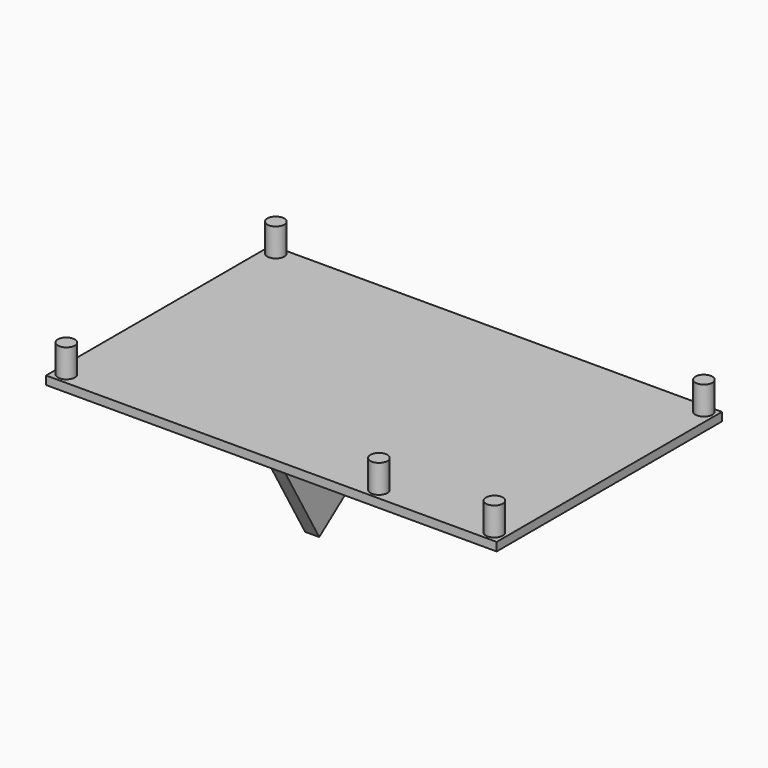
from build123d import *

# Parameters (mm, degrees)
SKETCH_W     = 160
SKETCH_H     = 100
PAD_DEPTH    = 3
SKETCH001_R  = 3
PAD001_DEPTH = 10
PAD002_DEPTH = 5


with BuildPart() as mainplate:
    # Sketch → Pad (new body)
    with BuildSketch(Plane.XY):
        Rectangle(SKETCH_W, SKETCH_H)
    extrude(amount=PAD_DEPTH)

    # Sketch001 (on Face6 of Pad) → Pad001 (join)
    with BuildSketch(Plane.XY.offset(3)):
        with Locations((-76, 47)):
            Circle(SKETCH001_R)
        with Locations((76, 47)):
            Circle(SKETCH001_R)
        with Locations((76, -46)):
            Circle(SKETCH001_R)
        with Locations((-76, -46)):
            Circle(SKETCH001_R)
        with Locations((35, -46)):
            Circle(SKETCH001_R)
    extrude(amount=PAD001_DEPTH)


with BuildPart() as mainplatesupports:
    # Sketch002 → Pad002 (new body)
    with BuildSketch(Plane.YZ):
        Polygon((-50, 0), (0, 0), (-35, -25.980762), align=None)
    extrude(amount=PAD002_DEPTH)


solid = Compound([mainplate.part, mainplatesupports.part])
